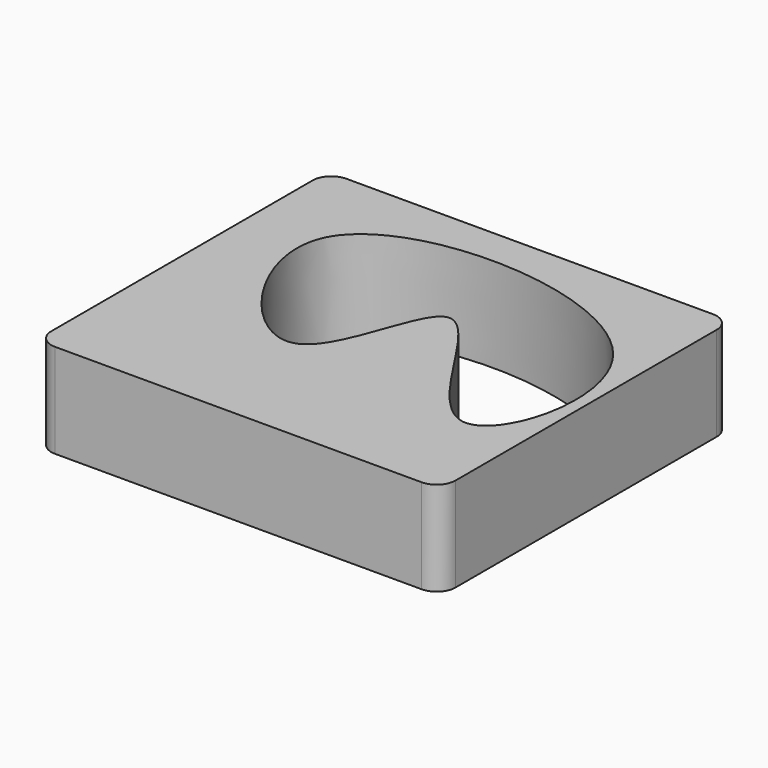
from build123d import *

# Parameters (mm, degrees)
F0_W     = 108.9901998639
F0_H     = 98.1747433543
F1_DEPTH = 25.4
F2_R     = 5.08
F4_DEPTH = 25.401


with BuildPart() as f1:
    # F0 (on Top) → F1 (new body)
    with BuildSketch(Plane.XY):
        Rectangle(F0_W, F0_H)
    extrude(amount=F1_DEPTH)

    # F2
    f2_edges = [f1.edges().sort_by_distance(p)[0] for p in [
        (54.4951, -49.087372, 12.7),
        (54.4951, 49.087372, 12.7),
        (-54.4951, 49.087372, 12.7),
        (-54.4951, -49.087372, 12.7),
    ]]
    fillet(f2_edges, radius=F2_R)

    # F3 (on face) → F4 (cut, through all)
    with BuildSketch(Plane.XY.offset(25.4)):
        with BuildLine():
            add(Edge.make_bspline(
                [(-36.479845643, 24.7212592512), (-43.1856734069, 8.9672969495), (-4.2737359925, -43.9903438942), (2.9990084554, 42.8748674839), (40.7453945946, -52.9948447228), (68.6048702218, 42.7549224434), (-27.7625777428, 45.2006862081), (-36.479845643, 24.7212592512)],
                knots=[0, 0, 0, 0, 0.1966281732, 0.3627033453, 0.5577465769, 0.7443924117, 1, 1, 1, 1], degree=3))
        make_face()
    extrude(amount=-F4_DEPTH, mode=Mode.SUBTRACT)


solid = f1.part
